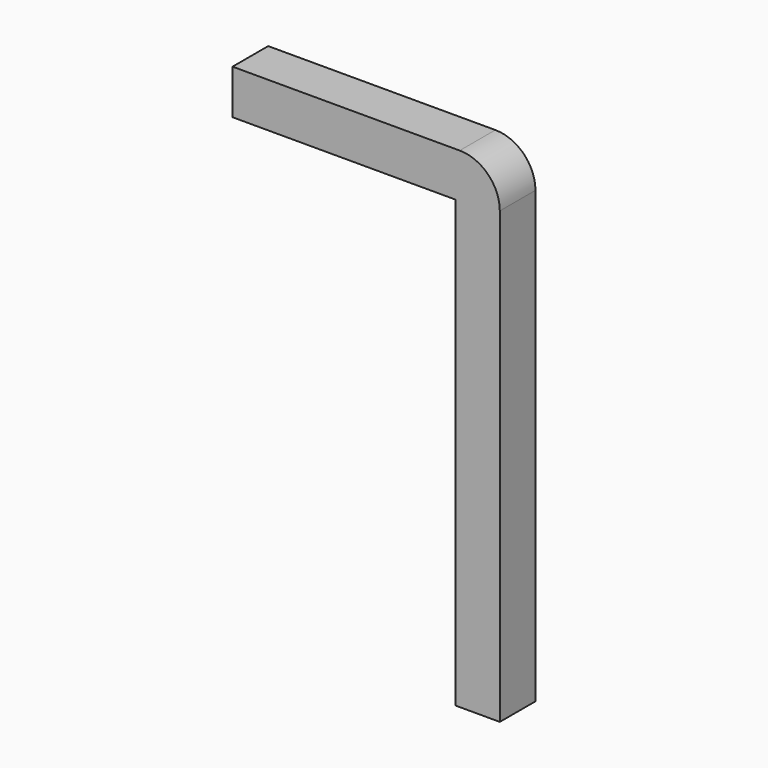
from build123d import *

# Parameters (mm, degrees)
BOX019_W     = 3
BOX019_H     = 0.5
BOX019_DEPTH = 0.5
BOX016_W     = 0.5
BOX016_H     = 0.5
BOX016_DEPTH = 5.5
FILLET008_R  = 0.45


with BuildPart() as kub019:
    # Box019 → Box019 (new body)
    with BuildSketch(Plane(origin=(-2.75, -5.33, 2), x_dir=(1, 0, 0), z_dir=(0, 0, 1))):
        with Locations((1.5, 0.25)):
            Rectangle(BOX019_W, BOX019_H)
    extrude(amount=BOX019_DEPTH)


with BuildPart() as fillet008:
    # Box016 → Box016 (new body)
    with BuildSketch(Plane(origin=(-0.25, -5.33, -3), x_dir=(1, 0, 0), z_dir=(0, 0, 1))):
        with Locations((0.25, 0.25)):
            Rectangle(BOX016_W, BOX016_H)
    extrude(amount=BOX016_DEPTH)

    # Fusion005: union Kub019
    add(kub019.part)

    # Fillet008
    fillet008_edges = [fillet008.edges().sort_by_distance(p)[0] for p in [
        (0.25, -5.08, 2.5),
    ]]
    fillet(fillet008_edges, radius=FILLET008_R)


solid = fillet008.part
